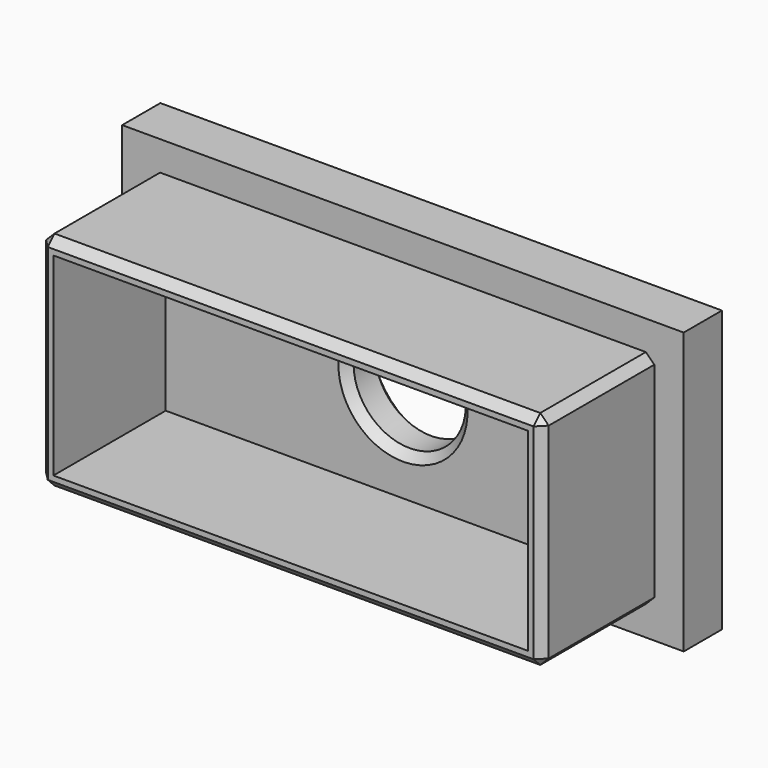
from build123d import *

# Parameters (mm, degrees)
SKETCH008_W         = 20
SKETCH008_H         = 10
PAD052_DEPTH        = 2
SKETCH009_W         = 17.9
SKETCH009_H         = 7.9
PAD053_DEPTH        = 5
SKETCH010_W         = 16.9
SKETCH010_H         = 6.9
POCKET004_DEPTH     = 5
HOLE001_D           = 4
HOLE001_DEPTH       = 2
HOLE001_CSINK_D     = 5.5
HOLE001_CSINK_ANGLE = 90
HOLE001_TIPS_R      = 2
CHAMFER004_SIZE     = 0.3
CHAMFER005_SIZE     = 0.3
CHAMFER055_SIZE     = 0.3


with BuildPart() as part:
    # Sketch008 → Pad052 (new body)
    with BuildSketch(Plane.XZ):
        Rectangle(SKETCH008_W, SKETCH008_H)
    extrude(amount=-PAD052_DEPTH)

    # Sketch009 (on Face5 of Pad052) → Pad053 (join)
    with BuildSketch(Plane.XZ):
        Rectangle(SKETCH009_W, SKETCH009_H)
    extrude(amount=PAD053_DEPTH)

    # Sketch010 (on Face11 of Pad053) → Pocket004 (cut)
    with BuildSketch(Plane.XZ.offset(5)):
        Rectangle(SKETCH010_W, SKETCH010_H)
    extrude(amount=-POCKET004_DEPTH, mode=Mode.SUBTRACT)

    # Hole001
    with Locations(Plane(origin=(0, 2, 0), x_dir=(1, 0, 0), z_dir=(0, 1, 0))):
        with Locations((0, 0)):
            CounterSinkHole(HOLE001_D / 2, HOLE001_CSINK_D / 2, depth=HOLE001_DEPTH, counter_sink_angle=HOLE001_CSINK_ANGLE)

    # Hole001 tips → Hole001 tip 1 section 0
    with BuildSketch(Plane(origin=(0, 0, 0), x_dir=(1, 0, 0), z_dir=(0, 1, 0)), mode=Mode.PRIVATE) as hole001_tip_1_s0:
        Circle(HOLE001_TIPS_R)
    loft([hole001_tip_1_s0.sketch, Vertex(0, -1.201721, 0)], mode=Mode.SUBTRACT)

    # Chamfer004
    chamfer004_edges = [part.edges().sort_by_distance(p)[0] for p in [
        (2, 0, 0),
    ]]
    chamfer(chamfer004_edges, length=CHAMFER004_SIZE)

    # Chamfer005
    chamfer005_edges = [part.edges().sort_by_distance(p)[0] for p in [
        (0, -5, -3.95),
        (-8.95, -5, 0),
        (0, -5, 3.95),
        (8.95, -5, 0),
        (8.95, -2.5, -3.95),
        (-8.95, -2.5, -3.95),
        (8.95, -2.5, 3.95),
        (-8.95, -2.5, 3.95),
    ]]
    chamfer(chamfer005_edges, length=CHAMFER005_SIZE)

    # Chamfer055
    chamfer055_edges = [part.edges().sort_by_distance(p)[0] for p in [
        (0, 2, 5),
        (10, 2, 0),
        (0, 2, -5),
        (-10, 2, 0),
    ]]
    chamfer(chamfer055_edges, length=CHAMFER055_SIZE)


with BuildPart() as part_1:
    # Body018 placement: moved
    add(part.part.moved(Location((0, -2, -131.5))))


solid = part_1.part
